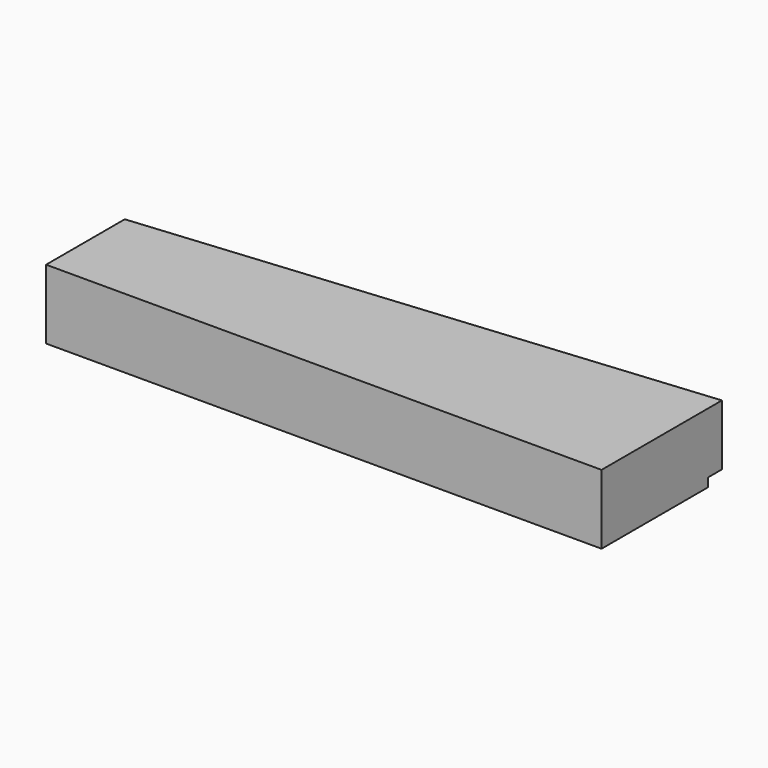
from build123d import *

# Parameters (mm, degrees)
F1_DEPTH = 304.8
F3_DEPTH = 38.1


with BuildPart() as f1:
    # F0 (on Top) → F1 (new body)
    with BuildSketch(Plane.XY):
        Polygon((0, 431.8), (0, 0), (2438.4, 0), (2438.4, 660.4), align=None)
    extrude(amount=F1_DEPTH)

    # F2 (on face) → F3 (cut)
    with BuildSketch(Plane(origin=(0, 0, 0), x_dir=(1, 0, 0), z_dir=(0, 0, -1))):
        Polygon((0, -431.8), (2438.4, -660.4), (2438.4, -584.2), (0, -355.6), align=None)
    extrude(amount=-F3_DEPTH, mode=Mode.SUBTRACT)


solid = f1.part
